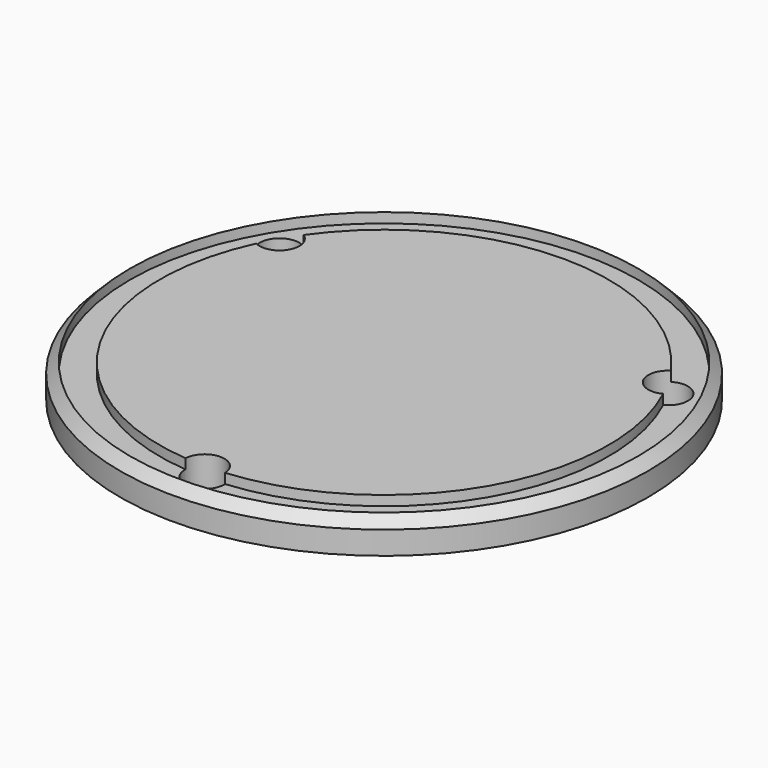
from build123d import *

# Parameters (mm, degrees)
F0_R     = 40
F1_DEPTH = 5
F2_SIZE  = 1.5
F3_R     = 38.5
F3_R_2   = 34
F4_DEPTH = 1.5
F6_D     = 6
F6_DEPTH = 10


with BuildPart() as f1:
    # F0 (on Top) → F1 (new body)
    with BuildSketch(Plane.XY):
        Circle(F0_R)
    extrude(amount=F1_DEPTH)

    # F2
    f2_edges = [f1.edges().sort_by_distance(p)[0] for p in [
        (-40, 0, 5),
    ]]
    chamfer(f2_edges, length=F2_SIZE)

    # F3 (on face) → F4 (cut)
    with BuildSketch(Plane.XY.offset(5)):
        Circle(F3_R)
        Circle(F3_R_2, mode=Mode.SUBTRACT)
    extrude(amount=-F4_DEPTH, mode=Mode.SUBTRACT)

    # F6
    with Locations(Plane.XY.offset(5)):
        with Locations((29.444864, 17), (0, -34), (-29.444864, 17)):
            Hole(F6_D / 2, depth=F6_DEPTH)


solid = f1.part
